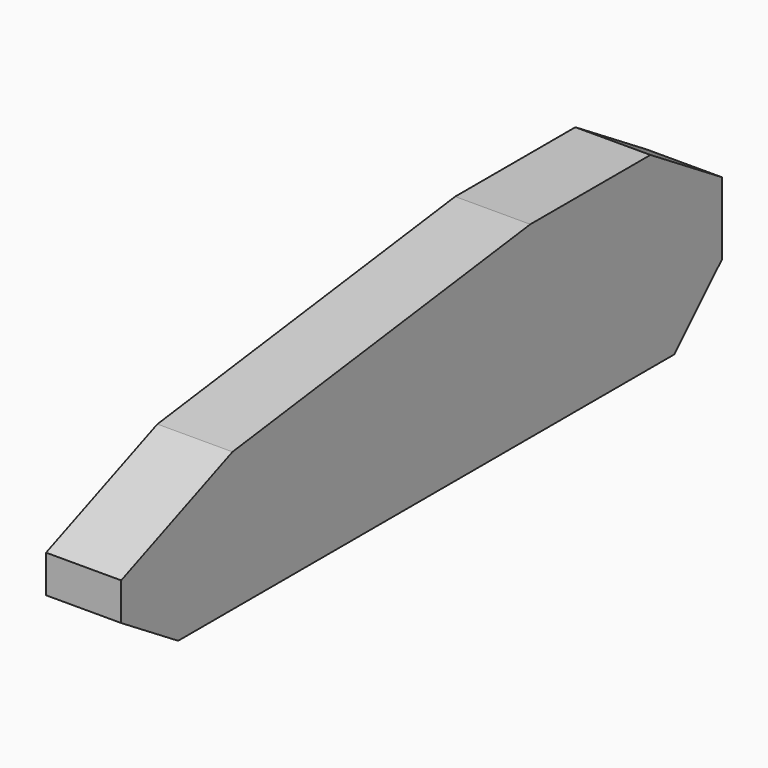
from build123d import *

# Parameters (mm, degrees)
PAD002_DEPTH    = 25.4
THICKNESS001_T  = -6
POCKET_DEPTH    = 5.05
CHAMFER001_SIZE = 0.5


with BuildPart() as part:
    # Sketch002 → Pad002 (new body)
    with BuildSketch(Plane.YZ):
        Polygon((-229.898747, 0), (-20.104522, 0), (0, 20.104522), (0, 44.580842), (-30.23, 63.5), (-81.03, 63.5), (-206.943497, 46.923174), (-254, 27.78354), (-254, 15.08354), align=None)
    extrude(amount=PAD002_DEPTH)

    # Thickness001
    thickness001_openings = [part.faces().sort_by_distance(p)[0] for p in [
        (0, -116.810873, 28.186462),
    ]]
    offset(amount=THICKNESS001_T, openings=thickness001_openings, kind=Kind.INTERSECTION)

    # Sketch003 (on Face11 of Thickness001) → Pocket (cut)
    with BuildSketch(Plane.YZ):
        Polygon((-251.05, 25.798733), (-206.182908, 44.047852), (-80.836647, 60.55), (-31.077013, 60.55), (-2.95, 42.946976), (-2.95, 21.326452), (-21.326452, 2.95), (-229.051734, 2.95), (-251.05, 16.717406), align=None)
        Polygon((-80.636739, 57.5), (-31.952739, 57.5), (-6, 41.257725), (-6, 22.589803), (-22.589803, 6), (-228.176008, 6), (-248, 18.406657), (-248, 23.746644), (-205.396535, 41.075061), align=None, mode=Mode.SUBTRACT)
    extrude(amount=POCKET_DEPTH, mode=Mode.SUBTRACT)

    # Chamfer001
    chamfer001_edges = [part.edges().sort_by_distance(p)[0] for p in [
        (0, -17.013507, 51.748488),
        (0, -55.95683, 60.55),
        (0, -143.509777, 52.298926),
        (0, -228.616454, 34.923292),
        (0, -251.05, 21.25807),
        (0, -240.050867, 9.833703),
        (0, -125.189093, 2.95),
        (0, -12.138226, 12.138226),
        (0, -2.95, 32.136714),
    ]]
    chamfer(chamfer001_edges, length=CHAMFER001_SIZE)


solid = part.part
